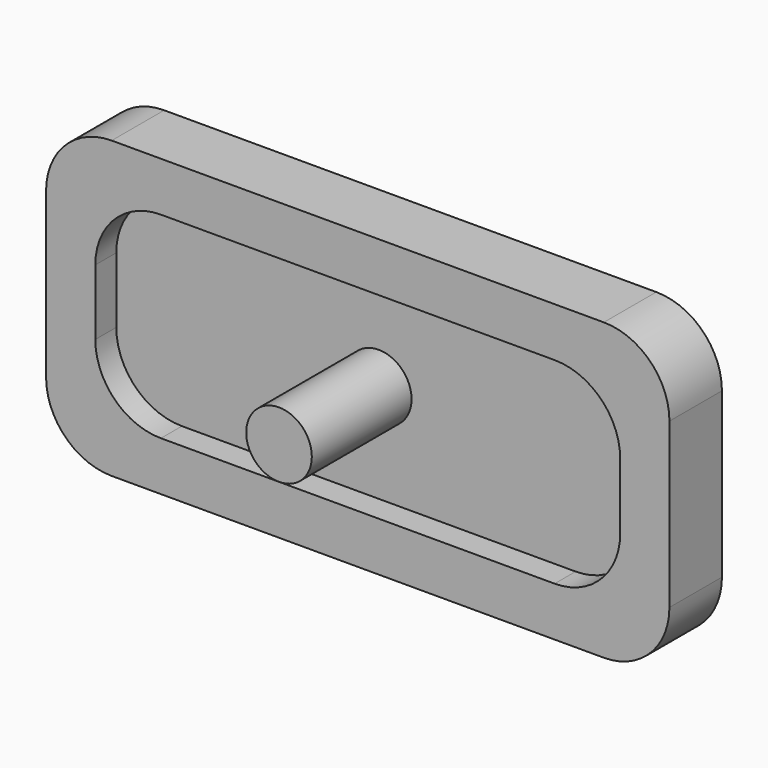
from build123d import *

# Parameters (mm, degrees)
F1_DEPTH = 2
F0_R     = 1
F2_DEPTH = 1.2
F3_DEPTH = 5


with BuildPart() as f1:
    # F0 (on Front) → F1 (new body)
    with BuildSketch(Plane.XZ):
        with BuildLine():
            Line((-7.5, -4.5), (7.5, -4.5))
            ThreePointArc((7.5, -4.5), (8.914214, -3.914214), (9.5, -2.5))
            Line((9.5, -2.5), (9.5, 2.5))
            ThreePointArc((9.5, 2.5), (8.914214, 3.914214), (7.5, 4.5))
            Line((7.5, 4.5), (-7.5, 4.5))
            ThreePointArc((-7.5, 4.5), (-8.914214, 3.914214), (-9.5, 2.5))
            Line((-9.5, 2.5), (-9.5, -2.5))
            ThreePointArc((-9.5, -2.5), (-8.914214, -3.914214), (-7.5, -4.5))
        make_face()
        with BuildLine():
            ThreePointArc((8, -1), (7.414214, -2.414214), (6, -3))
            Line((6, -3), (-6, -3))
            ThreePointArc((-6, -3), (-7.414214, -2.414214), (-8, -1))
            Line((-8, -1), (-8, 1))
            ThreePointArc((-8, 1), (-7.414214, 2.414214), (-6, 3))
            Line((-6, 3), (6, 3))
            ThreePointArc((6, 3), (7.414214, 2.414214), (8, 1))
            Line((8, 1), (8, -1))
        make_face(mode=Mode.SUBTRACT)
    extrude(amount=F1_DEPTH)

    # F0 (on Front) → F2 (join)
    with BuildSketch(Plane.XZ):
        with BuildLine():
            Line((-6, -3), (6, -3))
            ThreePointArc((6, -3), (7.414214, -2.414214), (8, -1))
            Line((8, -1), (8, 1))
            ThreePointArc((8, 1), (7.414214, 2.414214), (6, 3))
            Line((6, 3), (-6, 3))
            ThreePointArc((-6, 3), (-7.414214, 2.414214), (-8, 1))
            Line((-8, 1), (-8, -1))
            ThreePointArc((-8, -1), (-7.414214, -2.414214), (-6, -3))
        make_face()
        Circle(F0_R, mode=Mode.SUBTRACT)
    extrude(amount=F2_DEPTH)

    # F0 (on Front) → F3 (join)
    with BuildSketch(Plane.XZ):
        Circle(F0_R)
    extrude(amount=F3_DEPTH)


solid = f1.part
